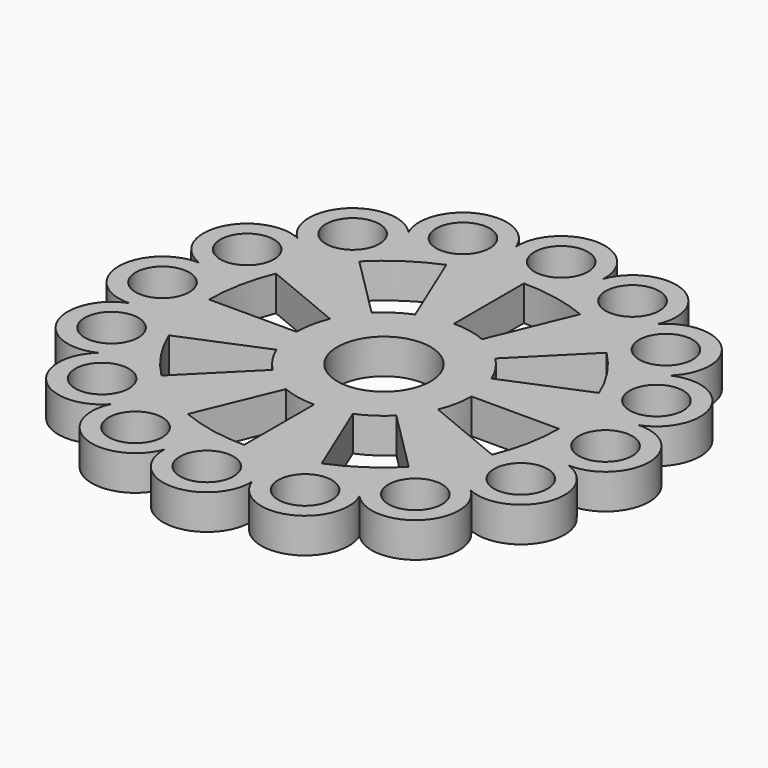
from build123d import *

# Parameters (mm, degrees)
F0_R     = 4.6
F0_R_2   = 8
F1_DEPTH = 6


with BuildPart() as f1:
    # F0 (on Top) → F1 (new body)
    with BuildSketch(Plane.XY):
        with BuildLine():
            ThreePointArc((21.337271, 31.933482), (17.412096, 42.036519), (7.492653, 37.66811))
            ThreePointArc((7.492653, 37.66811), (0, 45.5), (-7.492653, 37.66811))
            ThreePointArc((-7.492653, 37.66811), (-17.412096, 42.036519), (-21.337271, 31.933482))
            ThreePointArc((-21.337271, 31.933482), (-32.173359, 32.173359), (-31.933482, 21.337271))
            ThreePointArc((-31.933482, 21.337271), (-42.036519, 17.412096), (-37.66811, 7.492653))
            ThreePointArc((-37.66811, 7.492653), (-45.5, 0), (-37.66811, -7.492653))
            ThreePointArc((-37.66811, -7.492653), (-42.036519, -17.412096), (-31.933482, -21.337271))
            ThreePointArc((-31.933482, -21.337271), (-32.173359, -32.173359), (-21.337271, -31.933482))
            ThreePointArc((-21.337271, -31.933482), (-17.412096, -42.036519), (-7.492653, -37.66811))
            ThreePointArc((-7.492653, -37.66811), (0, -45.5), (7.492653, -37.66811))
            ThreePointArc((7.492653, -37.66811), (17.412096, -42.036519), (21.337271, -31.933482))
            ThreePointArc((21.337271, -31.933482), (32.173359, -32.173359), (31.933482, -21.337271))
            ThreePointArc((31.933482, -21.337271), (42.036519, -17.412096), (37.66811, -7.492653))
            ThreePointArc((37.66811, -7.492653), (45.5, 0), (37.66811, 7.492653))
            ThreePointArc((37.66811, 7.492653), (42.036519, 17.412096), (31.933482, 21.337271))
            ThreePointArc((31.933482, 21.337271), (32.173359, 32.173359), (21.337271, 31.933482))
        make_face()
        with Locations((-26.870058, -26.870058)):
            Circle(F0_R, mode=Mode.SUBTRACT)
        with Locations((-14.54197, -35.107422)):
            Circle(F0_R, mode=Mode.SUBTRACT)
        with Locations((-35.107422, -14.54197)):
            Circle(F0_R, mode=Mode.SUBTRACT)
        with BuildLine():
            ThreePointArc((-21.213203, -21.213203), (-24.944088, -16.667107), (-27.716386, -11.480503))
            Line((-27.716386, -11.480503), (-13.858193, -5.740251))
            ThreePointArc((-13.858193, -5.740251), (-12.472044, -8.333553), (-10.606602, -10.606602))
            Line((-10.606602, -10.606602), (-21.213203, -21.213203))
        make_face(mode=Mode.SUBTRACT)
        with BuildLine():
            ThreePointArc((0, -30), (-5.85271, -29.423558), (-11.480503, -27.716386))
            Line((-11.480503, -27.716386), (-5.740251, -13.858193))
            ThreePointArc((-5.740251, -13.858193), (-2.926355, -14.711779), (0, -15))
            Line((0, -15), (0, -30))
        make_face(mode=Mode.SUBTRACT)
        with Locations((0, -38)):
            Circle(F0_R, mode=Mode.SUBTRACT)
        with Locations((14.54197, -35.107422)):
            Circle(F0_R, mode=Mode.SUBTRACT)
        with Locations((26.870058, -26.870058)):
            Circle(F0_R, mode=Mode.SUBTRACT)
        with BuildLine():
            ThreePointArc((21.213203, -21.213203), (16.667107, -24.944088), (11.480503, -27.716386))
            Line((11.480503, -27.716386), (5.740251, -13.858193))
            ThreePointArc((5.740251, -13.858193), (8.333553, -12.472044), (10.606602, -10.606602))
            Line((10.606602, -10.606602), (21.213203, -21.213203))
        make_face(mode=Mode.SUBTRACT)
        with BuildLine():
            ThreePointArc((30, 0), (29.423558, -5.85271), (27.716386, -11.480503))
            Line((27.716386, -11.480503), (13.858193, -5.740251))
            ThreePointArc((13.858193, -5.740251), (14.711779, -2.926355), (15, 0))
            Line((15, 0), (30, 0))
        make_face(mode=Mode.SUBTRACT)
        with Locations((35.107422, -14.54197)):
            Circle(F0_R, mode=Mode.SUBTRACT)
        with Locations((-38, 0)):
            Circle(F0_R, mode=Mode.SUBTRACT)
        with Locations((-35.107422, 14.54197)):
            Circle(F0_R, mode=Mode.SUBTRACT)
        with BuildLine():
            ThreePointArc((-30, 0), (-29.423558, 5.85271), (-27.716386, 11.480503))
            Line((-27.716386, 11.480503), (-13.858193, 5.740251))
            ThreePointArc((-13.858193, 5.740251), (-14.711779, 2.926355), (-15, 0))
            Line((-15, 0), (-30, 0))
        make_face(mode=Mode.SUBTRACT)
        with BuildLine():
            ThreePointArc((-21.213203, 21.213203), (-16.667107, 24.944088), (-11.480503, 27.716386))
            Line((-11.480503, 27.716386), (-5.740251, 13.858193))
            ThreePointArc((-5.740251, 13.858193), (-8.333553, 12.472044), (-10.606602, 10.606602))
            Line((-10.606602, 10.606602), (-21.213203, 21.213203))
        make_face(mode=Mode.SUBTRACT)
        with Locations((-26.870058, 26.870058)):
            Circle(F0_R, mode=Mode.SUBTRACT)
        with Locations((-14.54197, 35.107422)):
            Circle(F0_R, mode=Mode.SUBTRACT)
        Circle(F0_R_2, mode=Mode.SUBTRACT)
        with BuildLine():
            ThreePointArc((0, 30), (5.85271, 29.423558), (11.480503, 27.716386))
            Line((11.480503, 27.716386), (5.740251, 13.858193))
            ThreePointArc((5.740251, 13.858193), (2.926355, 14.711779), (0, 15))
            Line((0, 15), (0, 30))
        make_face(mode=Mode.SUBTRACT)
        with BuildLine():
            ThreePointArc((21.213203, 21.213203), (24.944088, 16.667107), (27.716386, 11.480503))
            Line((27.716386, 11.480503), (13.858193, 5.740251))
            ThreePointArc((13.858193, 5.740251), (12.472044, 8.333553), (10.606602, 10.606602))
            Line((10.606602, 10.606602), (21.213203, 21.213203))
        make_face(mode=Mode.SUBTRACT)
        with Locations((38, 0)):
            Circle(F0_R, mode=Mode.SUBTRACT)
        with Locations((35.107422, 14.54197)):
            Circle(F0_R, mode=Mode.SUBTRACT)
        with Locations((0, 38)):
            Circle(F0_R, mode=Mode.SUBTRACT)
        with Locations((14.54197, 35.107422)):
            Circle(F0_R, mode=Mode.SUBTRACT)
        with Locations((26.870058, 26.870058)):
            Circle(F0_R, mode=Mode.SUBTRACT)
    extrude(amount=F1_DEPTH)


solid = f1.part
